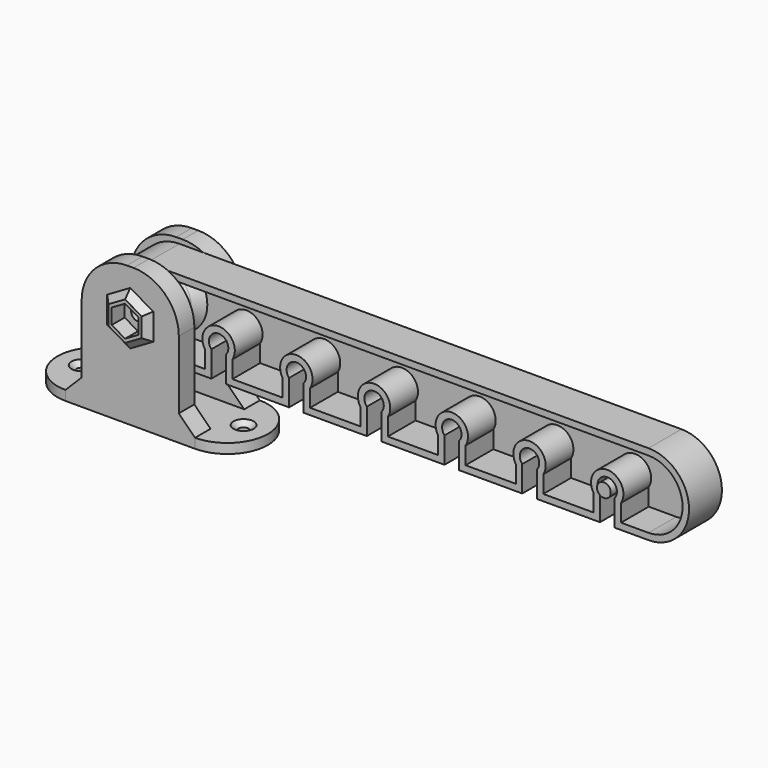
from build123d import *

# Parameters (mm, degrees)
PAD_DEPTH           = 3
SKETCH001_W         = 30
SKETCH001_H         = 6
PAD001_DEPTH        = 40
FILLET_R            = 14
SKETCH002_R         = 2.125
HOLE_DEPTH          = 25
HOLE_TIPS_R         = 2.125
POCKET_DEPTH        = 3
CHAMFER_SIZE        = 5
PAD002_DEPTH        = 2
CHAMFER001_SIZE     = 1.99
SKETCH012_R         = 1.625
POCKET004_DEPTH     = 3.001
CHAMFER004_SIZE     = 1.5
SKETCH005_R         = 2.2
PAD003_DEPTH        = 12.7
POCKET001_DEPTH     = 12.701
LINEARPATTERN_COUNT = 6
LINEARPATTERN_PITCH = 24
THICKNESS_T         = -2
CHAMFER002_SIZE     = 6
FILLET001_R         = 11
SKETCH007_R         = 2.125
PAD004_DEPTH        = 10
PAD005_DEPTH        = 4
SKETCH009_R         = 2.125
PAD006_DEPTH        = 3
POCKET002_DEPTH     = 4.3
SKETCH011_R         = 1.625
POCKET003_DEPTH     = 6.001
CHAMFER003_SIZE     = 1.5


with BuildPart() as latch_base:
    # Sketch → Pad (new body)
    with BuildSketch(Plane.XY):
        with BuildLine():
            ThreePointArc((-20, 12.5), (-32.5, 0), (-20, -12.5))
            Line((-20, -12.5), (20, -12.5))
            ThreePointArc((20, -12.5), (32.5, 0), (20, 12.5))
            Line((-20, 12.5), (20, 12.5))
        make_face()
    extrude(amount=PAD_DEPTH)

    # Sketch001 (on Face6 of Pad) → Pad001 (join)
    with BuildSketch(Plane.XY.offset(3)):
        with Locations((0, 9.5)):
            Rectangle(SKETCH001_W, SKETCH001_H)
        with Locations((0, -9.5)):
            Rectangle(SKETCH001_W, SKETCH001_H)
    extrude(amount=PAD001_DEPTH)

    # Fillet
    fillet_edges = [latch_base.edges().sort_by_distance(p)[0] for p in [
        (15, -9.5, 43),
        (15, 9.5, 43),
        (-15, -9.5, 43),
        (-15, 9.5, 43),
    ]]
    fillet(fillet_edges, radius=FILLET_R)

    # Sketch002 (on Face5 of Fillet) → Hole (cut)
    with BuildSketch(Plane(origin=(0, 12.5, 0), x_dir=(-1, 0, 0), z_dir=(0, 1, 0))):
        with Locations((0, 29)):
            Circle(SKETCH002_R)
    extrude(amount=-HOLE_DEPTH, mode=Mode.SUBTRACT)

    # Hole tips → Hole tip 1 section 0
    with BuildSketch(Plane(origin=(0, -12.5, 0), x_dir=(-1, 0, 0), z_dir=(0, 1, 0)), mode=Mode.PRIVATE) as hole_tip_1_s0:
        with Locations((0, 29)):
            Circle(HOLE_TIPS_R)
    loft([hole_tip_1_s0.sketch, Vertex(0, -13.776829, 29)], mode=Mode.SUBTRACT)

    # Sketch003 (on Face11 of Hole) → Pocket (cut)
    with BuildSketch(Plane.XZ.offset(12.5)):
        Polygon((4.125, 31.38157), (0, 33.76314), (-4.125, 31.38157), (-4.125, 26.61843), (0, 24.23686), (4.125, 26.61843), align=None)
    extrude(amount=-POCKET_DEPTH, mode=Mode.SUBTRACT)

    # Chamfer
    chamfer_edges = [latch_base.edges().sort_by_distance(p)[0] for p in [
        (15, -9.5, 3),
        (15, 9.5, 3),
        (-15, 9.5, 3),
        (-15, -9.5, 3),
    ]]
    chamfer(chamfer_edges, length=CHAMFER_SIZE)

    # Sketch004 (on Face18 of Chamfer) → Pad002 (join)
    with BuildSketch(Plane.XZ.offset(12.5)):
        Polygon((5.125, 31.95892), (0, 34.91784), (-5.125, 31.95892), (-5.125, 26.04108), (0, 23.08216), (5.125, 26.04108), align=None)
        Polygon((4.125, 31.38157), (0, 33.76314), (-4.125, 31.38157), (-4.125, 26.61843), (0, 24.23686), (4.125, 26.61843), align=None, mode=Mode.SUBTRACT)
    extrude(amount=PAD002_DEPTH)

    # Chamfer001
    chamfer001_edges = [latch_base.edges().sort_by_distance(p)[0] for p in [
        (2.5625, -12.5, 33.43838),
        (5.125, -12.5, 29),
        (2.5625, -12.5, 24.56162),
        (-2.5625, -12.5, 24.56162),
        (-5.125, -12.5, 29),
        (-2.5625, -12.5, 33.43838),
    ]]
    chamfer(chamfer001_edges, length=CHAMFER001_SIZE)

    # Sketch012 (on Face25 of Chamfer001) → Pocket004 (cut, through all)
    with BuildSketch(Plane.XY.offset(3)):
        with Locations((-25, 0)):
            Circle(SKETCH012_R)
        with Locations((25, 0)):
            Circle(SKETCH012_R)
    extrude(amount=-POCKET004_DEPTH, mode=Mode.SUBTRACT)

    # Chamfer004
    chamfer004_edges = [latch_base.edges().sort_by_distance(p)[0] for p in [
        (-26.625, 0, 3),
        (23.375, 0, 3),
    ]]
    chamfer(chamfer004_edges, length=CHAMFER004_SIZE)


with BuildPart() as latch:
    # Sketch005 (on Face1 of CopyChamfer001) → Pad003 (new body)
    with BuildSketch(Plane.XZ.offset(-6.5)):
        with BuildLine():
            ThreePointArc((0, 41.5), (-12.5, 29), (0, 16.5))
            Line((0, 16.5), (155, 16.5))
            ThreePointArc((155, 16.5), (167.5, 29), (155, 41.5))
            Line((0, 41.5), (155, 41.5))
        make_face()
        with Locations((0, 29)):
            Circle(SKETCH005_R, mode=Mode.SUBTRACT)
    extrude(amount=PAD003_DEPTH)

    # Sketch006 (on Face7 of Pad003) → Pocket001 (cut, through all)
    with BuildSketch(Plane.XZ.offset(6.2)):
        with BuildLine():
            Line((20, 24.5), (20, 16.5))
            Line((20, 16.5), (24.5, 16.5))
            Line((24.5, 16.5), (24.5, 24.5))
            ThreePointArc((24.5, 24.5), (22.25, 29.484313), (20, 24.5))
        make_face()
    pocket001 = extrude(amount=-POCKET001_DEPTH, mode=Mode.SUBTRACT)

    # LinearPattern: Pocket001 ×6
    with Locations(*[(i * LINEARPATTERN_PITCH, 0, 0) for i in range(1, LINEARPATTERN_COUNT)]):
        add(pocket001, mode=Mode.SUBTRACT)

    # Thickness
    thickness_openings = [latch.faces().sort_by_distance(p)[0] for p in [
        (77.358655, -6.2, 29.544523),
    ]]
    offset(amount=THICKNESS_T, openings=thickness_openings)

    # Chamfer002
    chamfer002_edges = [latch.edges().sort_by_distance(p)[0] for p in [
        (-4.2, 4.5, 29),
    ]]
    chamfer(chamfer002_edges, length=CHAMFER002_SIZE)

    # Fillet001
    fillet001_edges = [latch.edges().sort_by_distance(p)[0] for p in [
        (-4.2, -1.5, 29),
    ]]
    fillet(fillet001_edges, radius=FILLET001_R)


with BuildPart() as screw:
    # Sketch007 (on Face1 of CopyFillet001) → Pad004 (new body, symmetric)
    with BuildSketch(Plane(origin=(0, 6.5, 0), x_dir=(-1, 0, 0), z_dir=(0, 1, 0))):
        with Locations((-142.25, 26.484313)):
            Circle(SKETCH007_R)
    extrude(amount=PAD004_DEPTH, both=True)

    # Sketch008 (on Face3 of Pad004) → Pad005 (join)
    with BuildSketch(Plane(origin=(0, 16.5, 0), x_dir=(-1, 0, 0), z_dir=(0, 1, 0))):
        Polygon((-146.868802, 26.484313), (-144.559401, 22.484313), (-139.940599, 22.484313), (-137.631198, 26.484313), (-139.940599, 30.484313), (-144.559401, 30.484313), align=None)
    extrude(amount=PAD005_DEPTH)


with BuildPart() as screw_1:
    # Body002 placement: moved
    add(screw.part.moved(Location((0, -4, 0))))


with BuildPart() as side_fixture:
    # Sketch009 (on Face1 of CopyPad005) → Pad006 (new body, symmetric)
    with BuildSketch(Plane.XZ.offset(-16.5)):
        with BuildLine():
            ThreePointArc((134.75, 32.484313), (128.75, 26.484313), (134.75, 20.484313))
            Line((134.75, 20.484313), (149.75, 20.484313))
            ThreePointArc((149.75, 20.484313), (155.75, 26.484313), (149.75, 32.484313))
            Line((134.75, 32.484313), (149.75, 32.484313))
        make_face()
        with Locations((142.25, 26.484313)):
            Circle(SKETCH009_R, mode=Mode.SUBTRACT)
    extrude(amount=PAD006_DEPTH, both=True)

    # Sketch010 (on Face6 of Pad006) → Pocket002 (cut)
    with BuildSketch(Plane(origin=(0, 19.5, 0), x_dir=(-1, 0, 0), z_dir=(0, 1, 0))):
        Polygon((-137.48686, 26.484313), (-139.86843, 30.609313), (-144.63157, 30.609313), (-147.01314, 26.484313), (-144.63157, 22.359313), (-139.86843, 22.359313), align=None)
    extrude(amount=-POCKET002_DEPTH, mode=Mode.SUBTRACT)

    # Sketch011 (on Face5 of Pocket002) → Pocket003 (cut, through all)
    with BuildSketch(Plane.XZ.offset(-13.5)):
        with Locations((132.25, 26.484313)):
            Circle(SKETCH011_R)
        with Locations((152.25, 26.484313)):
            Circle(SKETCH011_R)
    extrude(amount=-POCKET003_DEPTH, mode=Mode.SUBTRACT)

    # Chamfer003
    chamfer003_edges = [side_fixture.edges().sort_by_distance(p)[0] for p in [
        (130.625, 13.5, 26.484313),
        (150.625, 13.5, 26.484313),
    ]]
    chamfer(chamfer003_edges, length=CHAMFER003_SIZE)


with BuildPart() as side_fixture_1:
    # Body003 placement: moved
    add(side_fixture.part.moved(Location((0, -3, 0))))


solid = Compound([latch_base.part, latch.part, screw_1.part, side_fixture_1.part])
